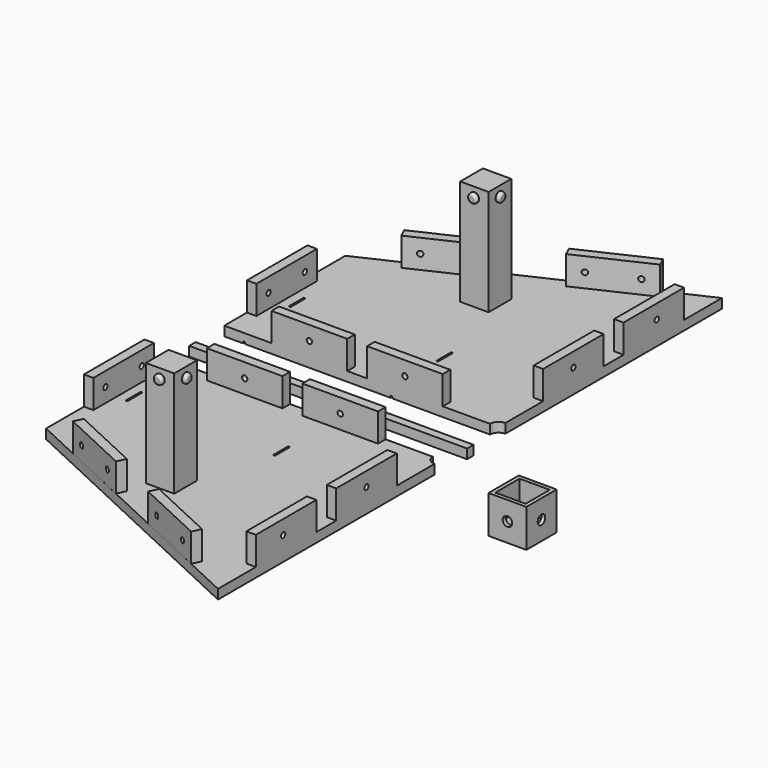
from build123d import *

# Parameters (mm, degrees)
F1_DEPTH       = 5
F2_W           = 5
F2_H           = 40
F2_W_2         = 40
F2_H_2         = 5
F3_DEPTH       = 15
F4_R           = 1.4
F5_DEPTH       = 5
F6_R           = 1.4
F7_DEPTH       = 5
F8_R           = 1.4
F9_DEPTH       = 5
F10_R          = 1.4
F11_DEPTH      = 5
F12_R          = 1.4
F13_DEPTH      = 5
F14_W          = 146.9559073448
F14_H          = 4.2926371098
F15_DEPTH      = 5
F17_W          = 1
F17_H          = 30
F18_DEPTH      = 1
F19_W          = 1
F19_H          = 30
F20_DEPTH      = 1
F19_H_2        = 10
F21_DEPTH      = 6
F17_H_2        = 10
F22_DEPTH      = 6
F23_W          = 15
F23_H          = 15
F24_DEPTH      = 56
F25_W          = 15
F25_H          = 15
F26_DEPTH      = 56
F27_W          = 20
F27_H          = 20
F27_W_2        = 16
F27_H_2        = 16
F28_DEPTH      = 20
F27_R          = 1.5
F29_DEPTH      = 5
F30_DEPTH      = 3
F31_R          = 2.5
F32_DEPTH      = 25
F33_R          = 2.5
F34_DEPTH      = 25
F35_SIZE       = 2
F36_R          = 2.5
F37_DEPTH      = 17
F37_DEPTH_BACK = 2
F38_R          = 1.5
F39_R          = 2.5
F40_DEPTH      = 17
F40_DEPTH_BACK = 2
F41_R          = 1.5
F42_R          = 2.5
F43_DEPTH      = 17
F43_DEPTH_BACK = 2
F44_R          = 1.5
F45_R          = 2.5
F46_DEPTH      = 17
F46_DEPTH_BACK = 2
F47_R          = 1.5


with BuildPart() as f1:
    # F0 (on Top) → F1 (new body)
    with BuildSketch(Plane.XY):
        with BuildLine():
            Line((-54.0458601713, 34.8853245378), (-54.0458601713, -45.1146754622))
            Line((-54.0458601713, -45.1146754622), (90.9541398287, -112.7534217546))
            Line((90.9541398287, -112.7534217546), (90.9541398287, 30.3853245378))
            ThreePointArc((90.9541398287, 30.3853245378), (87.7721593133, 31.7033440224), (86.4541398287, 34.8853245378))
            Line((86.4541398287, 34.8853245378), (-54.0458601713, 34.8853245378))
        make_face()
    extrude(amount=F1_DEPTH)

    # F2 (on face) → F3 (join)
    with BuildSketch(Plane.XY.offset(5)):
        with Locations((-51.5458601713, -0.1146754622)):
            Rectangle(F2_W, F2_H)
        Polygon((-29.2765188626, -51.1516906352), (-31.3896101713, -55.6832295704), (4.8627013101, -72.5879600401), (6.9757926189, -68.0564211049), align=None)
        Polygon((34.1609790644, -80.7436488776), (32.0478877557, -85.2751878127), (68.3001992372, -102.1799182824), (70.4132905459, -97.6483793472), align=None)
        with Locations((88.4541398287, -67.7534217546)):
            Rectangle(F2_W, F2_H)
        with Locations((88.4541398287, -14.6146754622)):
            Rectangle(F2_W, F2_H)
        with Locations((41.4541398287, 32.3853245378)):
            Rectangle(F2_W_2, F2_H_2)
        with Locations((-9.0458601713, 32.3853245378)):
            Rectangle(F2_W_2, F2_H_2)
    extrude(amount=F3_DEPTH)

    # F4 (on face) → F5 (cut)
    with BuildSketch(Plane(origin=(0, 34.8853245378, 0), x_dir=(-1, 0, 0), z_dir=(0, 1, 0))):
        with Locations((-41.4541398287, 12.5)):
            Circle(F4_R)
        with Locations((9.0458601713, 12.5)):
            Circle(F4_R)
    extrude(amount=-F5_DEPTH, mode=Mode.SUBTRACT)

    # F6 (on face) → F7 (cut)
    with BuildSketch(Plane(origin=(-54.0458601713, 0, 0), x_dir=(0, -1, 0), z_dir=(-1, 0, 0))):
        with Locations((-11.8853245378, 12.5)):
            Circle(F6_R)
        with Locations((12.1146754622, 12.5)):
            Circle(F6_R)
    extrude(amount=-F7_DEPTH, mode=Mode.SUBTRACT)

    # F8 (on face) → F9 (cut)
    with BuildSketch(Plane(origin=(-26.9342931338, -57.7607780245, 0), x_dir=(0.906307787, -0.4226182617, 0), z_dir=(-0.4226182617, -0.906307787, 0))):
        with Locations((3.0841015589, 12.5)):
            Circle(F8_R)
        with Locations((27.0841015589, 12.5)):
            Circle(F8_R)
    extrude(amount=-F9_DEPTH, mode=Mode.SUBTRACT)

    # F10 (on face) → F11 (cut)
    with BuildSketch(Plane(origin=(-26.9383405851, -57.7694578117, 0), x_dir=(0.906307787, -0.4226182617, 0), z_dir=(-0.4226182617, -0.906307787, 0))):
        with Locations((73.0841018741, 12.5)):
            Circle(F10_R)
        with Locations((97.0841018741, 12.2932726517)):
            Circle(F10_R)
    extrude(amount=-F11_DEPTH, mode=Mode.SUBTRACT)

    # F12 (on face) → F13 (cut)
    with BuildSketch(Plane.YZ.offset(90.9541398287)):
        with Locations((-69.682277739, 12.5)):
            Circle(F12_R)
        with Locations((-14.6146754622, 12.5)):
            Circle(F12_R)
    extrude(amount=-F13_DEPTH, mode=Mode.SUBTRACT)


with BuildPart() as f15:
    # F14 (on Top) → F15 (new body)
    with BuildSketch(Plane.XY):
        with Locations((19.3889886141, 51.6130961478)):
            Rectangle(F14_W, F14_H)
    extrude(amount=F15_DEPTH)


with BuildPart() as f16_1:
    # F16: instance of F1
    add(f1.part.mirror(Plane(origin=(19.3889886141, 53.7594147027, 2.5), x_dir=(-1, 0, 0), z_dir=(0, 1, 0))))

    # F19 (on face) → F20 (cut)
    with BuildSketch(Plane(origin=(0, 0, 0), x_dir=(1, 0, 0), z_dir=(0, 0, -1))):
        Polygon((-43.0458601713, -112.6335048676), (-44.0458601713, -112.6335048676), (-44.0458601713, -147.6335048676), (34.9541398287, -147.6335048676), (34.9541398287, -112.6335048676), (33.9541398287, -112.6335048676), (33.9541398287, -146.6335048676), (-43.0458601713, -146.6335048676), align=None)
        with Locations((-43.5458601713, -87.6335048676)):
            Rectangle(F19_W, F19_H)
        with Locations((34.4541398287, -87.6335048676)):
            Rectangle(F19_W, F19_H)
    extrude(amount=-F20_DEPTH, mode=Mode.SUBTRACT)

    # F19 (on face) → F21 (cut)
    with BuildSketch(Plane(origin=(0, 0, 0), x_dir=(1, 0, 0), z_dir=(0, 0, -1))):
        with Locations((-43.5458601713, -107.6335048676)):
            Rectangle(F19_W, F19_H_2)
        with Locations((34.4541398287, -107.6335048676)):
            Rectangle(F19_W, F19_H_2)
    extrude(amount=-F21_DEPTH, mode=Mode.SUBTRACT)

    # F25 (on face) → F26 (join)
    with BuildSketch(Plane.XY.offset(5)):
        with Locations((16.2041398287, 157.6335048676)):
            Rectangle(F25_W, F25_H)
    extrude(amount=F26_DEPTH)

    # F42 (on face) → F43 (join, two sides)
    with BuildSketch(Plane.YZ.offset(23.7041398287)) as f43_sk:
        with Locations((157.2226285934, 56)):
            Circle(F42_R)
    extrude(amount=-F43_DEPTH)
    extrude(f43_sk.sketch, amount=F43_DEPTH_BACK)

    # F44
    f44_edges = [f16_1.edges().sort_by_distance(p)[0] for p in [
        (25.70414, 154.722629, 56),
        (6.70414, 154.722629, 56),
    ]]
    fillet(f44_edges, radius=F44_R)

    # F45 (on face) → F46 (join, two sides)
    with BuildSketch(Plane.XZ.offset(-150.1335048676)) as f46_sk:
        with Locations((16.2041398287, 56)):
            Circle(F45_R)
    extrude(amount=-F46_DEPTH)
    extrude(f46_sk.sketch, amount=F46_DEPTH_BACK)

    # F47
    f47_edges = [f16_1.edges().sort_by_distance(p)[0] for p in [
        (13.70414, 148.133505, 56),
        (13.70414, 167.133505, 56),
    ]]
    fillet(f47_edges, radius=F47_R)


with BuildPart() as f1_1:
    add(f1.part)

    # F17 (on face) → F18 (cut)
    with BuildSketch(Plane(origin=(0, 0, 0), x_dir=(1, 0, 0), z_dir=(0, 0, -1))):
        Polygon((-44.0458601713, 40.1146754622), (-44.0458601713, 5.1146754622), (-43.0458601713, 5.1146754622), (-43.0458601713, 39.1146754622), (33.9541398287, 39.1146754622), (33.9541398287, 5.1146754622), (34.9541398287, 5.1146754622), (34.9541398287, 40.1146754622), align=None)
        with Locations((-43.5458601713, -19.8853245378)):
            Rectangle(F17_W, F17_H)
        with Locations((34.4541398287, -19.8853245378)):
            Rectangle(F17_W, F17_H)
    extrude(amount=-F18_DEPTH, mode=Mode.SUBTRACT)

    # F17 (on face) → F22 (cut)
    with BuildSketch(Plane(origin=(0, 0, 0), x_dir=(1, 0, 0), z_dir=(0, 0, -1))):
        with Locations((34.4541398287, 0.1146754622)):
            Rectangle(F17_W, F17_H_2)
        with Locations((-43.5458601713, 0.1146754622)):
            Rectangle(F17_W, F17_H_2)
    extrude(amount=-F22_DEPTH, mode=Mode.SUBTRACT)

    # F23 (on face) → F24 (join)
    with BuildSketch(Plane.XY.offset(5)):
        with Locations((16.2041398287, -50.1146754622)):
            Rectangle(F23_W, F23_H)
    extrude(amount=F24_DEPTH)

    # F27 (on Top) → F30 (cut)
    with BuildSketch(Plane.XY):
        with Locations((152.5860822201, 11.4833385572)):
            Circle(F27_R)
    extrude(amount=-F30_DEPTH, mode=Mode.SUBTRACT)

    # F36 (on face) → F37 (join, two sides)
    with BuildSketch(Plane.YZ.offset(23.7041398287)) as f37_sk:
        with Locations((-50.1146754622, 56)):
            Circle(F36_R)
    extrude(amount=-F37_DEPTH)
    extrude(f37_sk.sketch, amount=F37_DEPTH_BACK)

    # F38
    f38_edges = [f1_1.edges().sort_by_distance(p)[0] for p in [
        (6.70414, -52.614675, 56),
        (25.70414, -52.614675, 56),
    ]]
    fillet(f38_edges, radius=F38_R)

    # F39 (on face) → F40 (join, two sides)
    with BuildSketch(Plane.XZ.offset(57.6146754622)) as f40_sk:
        with Locations((16.2041398287, 56)):
            Circle(F39_R)
    extrude(amount=-F40_DEPTH)
    extrude(f40_sk.sketch, amount=F40_DEPTH_BACK)

    # F41
    f41_edges = [f1_1.edges().sort_by_distance(p)[0] for p in [
        (13.70414, -59.614675, 56),
        (13.70414, -40.614675, 56),
    ]]
    fillet(f41_edges, radius=F41_R)


with BuildPart() as f28:
    # F27 (on Top) → F28 (new body)
    with BuildSketch(Plane.XY):
        with Locations((152.5860822201, 11.4833385572)):
            Rectangle(F27_W, F27_H)
        with Locations((152.5860822201, 11.4833385572)):
            Rectangle(F27_W_2, F27_H_2, mode=Mode.SUBTRACT)
    extrude(amount=F28_DEPTH)

    # F27 (on Top) → F29 (join)
    with BuildSketch(Plane.XY):
        with Locations((152.5860822201, 11.4833385572)):
            Rectangle(F27_W_2, F27_H_2)
        with Locations((152.5860822201, 11.4833385572)):
            Circle(F27_R, mode=Mode.SUBTRACT)
    extrude(amount=F29_DEPTH)

    # F31 (on face) → F32 (cut)
    with BuildSketch(Plane.XZ.offset(-1.4833385572)):
        with Locations((152.5860822201, 10)):
            Circle(F31_R)
    extrude(amount=-F32_DEPTH, mode=Mode.SUBTRACT)

    # F33 (on face) → F34 (cut)
    with BuildSketch(Plane.YZ.offset(162.5860822201)):
        with Locations((11.4833385572, 10)):
            Circle(F33_R)
    extrude(amount=-F34_DEPTH, mode=Mode.SUBTRACT)

    # F35
    f35_edges = [f28.edges().sort_by_distance(p)[0] for p in [
        (151.086082, 11.483339, 5),
    ]]
    chamfer(f35_edges, length=F35_SIZE)


solid = Compound([f15.part, f16_1.part, f1_1.part, f28.part])
